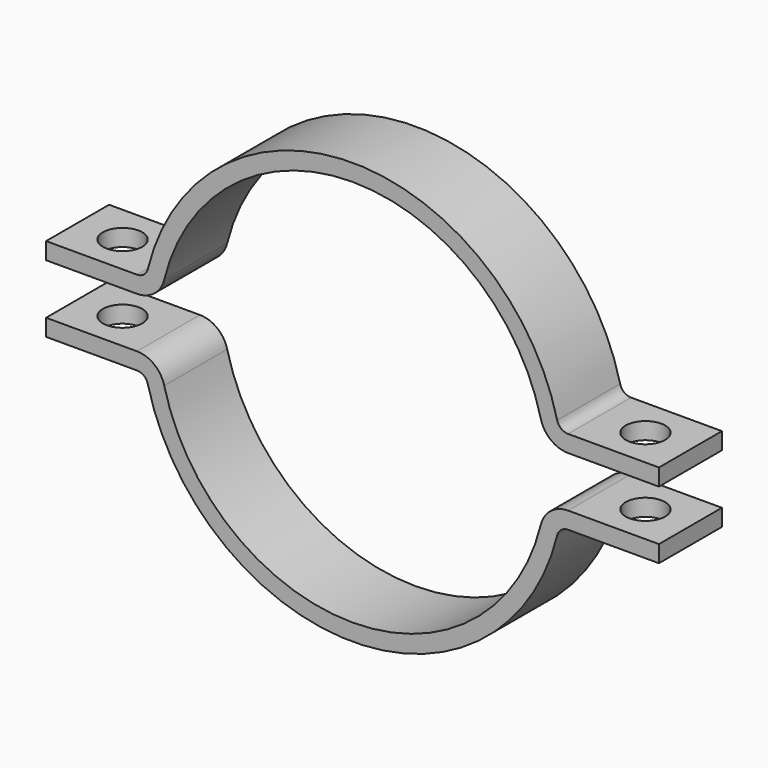
from build123d import *

# Parameters (mm, degrees)
F1_DEPTH = 22.225
F2_R     = 6.35
F3_R     = 15.875
F4_R     = 11.1125
F5_DEPTH = 142.876


with BuildPart() as f1:
    # F0 (on Front) → F1 (new body, symmetric)
    with BuildSketch(Plane.XZ):
        with BuildLine():
            ThreePointArc((-108.601709, 14.2875), (0, 109.5375), (108.601709, 14.2875))
            Line((108.601709, 14.2875), (173.0375, 14.2875))
            Line((173.0375, 14.2875), (173.0375, 23.8125))
            Line((173.0375, 23.8125), (116.656949, 23.8125))
            ThreePointArc((116.656949, 23.8125), (0, 119.0625), (-116.656949, 23.8125))
            Line((-116.656949, 23.8125), (-173.0375, 23.8125))
            Line((-173.0375, 23.8125), (-173.0375, 14.2875))
            Line((-173.0375, 14.2875), (-108.601709, 14.2875))
        make_face()
        with BuildLine():
            ThreePointArc((108.601709, -14.2875), (0, -109.5375), (-108.601709, -14.2875))
            Line((-108.601709, -14.2875), (-173.0375, -14.2875))
            Line((-173.0375, -14.2875), (-173.0375, -23.8125))
            Line((-173.0375, -23.8125), (-116.656949, -23.8125))
            ThreePointArc((-116.656949, -23.8125), (0, -119.0625), (116.656949, -23.8125))
            Line((116.656949, -23.8125), (173.0375, -23.8125))
            Line((173.0375, -23.8125), (173.0375, -14.2875))
            Line((173.0375, -14.2875), (108.601709, -14.2875))
        make_face()
    extrude(amount=F1_DEPTH, both=True)

    # F2
    f2_edges = [f1.edges().sort_by_distance(p)[0] for p in [
        (-116.656949, 0, 23.8125),
        (116.656949, 0, 23.8125),
        (116.656949, 0, -23.8125),
        (-116.656949, 0, -23.8125),
    ]]
    fillet(f2_edges, radius=F2_R)

    # F3
    f3_edges = [f1.edges().sort_by_distance(p)[0] for p in [
        (108.601709, 0, 14.2875),
        (108.601709, 0, -14.2875),
        (-108.601709, 0, -14.2875),
        (-108.601709, 0, 14.2875),
    ]]
    fillet(f3_edges, radius=F3_R)

    # F4 (on face) → F5 (cut, through all)
    with BuildSketch(Plane.XY.offset(23.8125)):
        with Locations((-147.6375, 0)):
            Circle(F4_R)
        with Locations((147.6375, 0)):
            Circle(F4_R)
    extrude(amount=-F5_DEPTH, mode=Mode.SUBTRACT)


solid = f1.part
